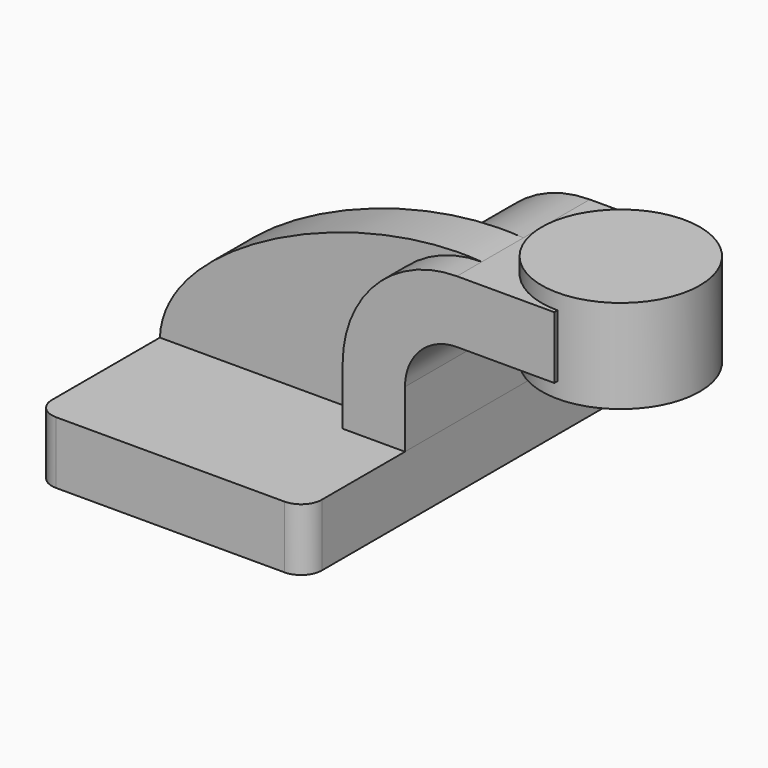
from build123d import *

# Parameters (mm, degrees)
F1_DEPTH = 63.5
F0_W     = 26.6213221727
F0_H     = 19.05
F2_DEPTH = 25.4
F3_DEPTH = 15.875
F5_R     = 6.35


with BuildPart() as f1:
    # F0 (on Front) → F1 (new body, symmetric)
    with BuildSketch(Plane.XZ):
        Polygon((41.275, -9.525), (41.275, 9.525), (22.225, 9.525), (-41.275, 9.525), (-41.275, -9.525), align=None)
    extrude(amount=F1_DEPTH, both=True)

    # F5
    f5_edges = [f1.edges().sort_by_distance(p)[0] for p in [
        (41.275, -63.5, 0),
        (-41.275, -63.5, 0),
        (-41.275, 63.5, 0),
        (41.275, 63.5, 0),
    ]]
    fillet(f5_edges, radius=F5_R)


with BuildPart() as f2:
    # F0 (on Front) → F2 (new body, symmetric)
    with BuildSketch(Plane.XZ):
        with BuildLine():
            Line((22.225, 9.525), (41.275, 9.525))
            Line((41.275, 9.525), (41.275, 27.0002))
            ThreePointArc((41.275, 27.0002), (45.9246798487, 38.2255201513), (57.15, 42.8752))
            Line((57.15, 42.8752), (60.325, 42.8752))
            Line((60.325, 42.8752), (60.325, 61.9252))
            Line((60.325, 61.9252), (57.15, 61.9252))
            ThreePointArc((57.15, 61.9252), (32.4542956671, 51.6959043329), (22.225, 27.0002))
            Line((22.225, 27.0002), (22.225, 9.525))
        make_face()
        with Locations((73.6356610864, 52.4002)):
            Rectangle(F0_W, F0_H)
    extrude(amount=F2_DEPTH, both=True)

    # F0 (on Front) → F4 (revolve)
    with BuildSketch(Plane.XZ):
        Polygon((86.9463221727, 61.9252), (86.9463221727, 42.8752), (86.9463221727, 38.1), (111.125, 38.1), (111.125, 66.675), (86.9463221727, 66.675), align=None)
    revolve(axis=Axis((86.9463221727, 0, 52.3875), (0, 0, -1)))


with BuildPart() as f3:
    # F0 (on Front) → F3 (new body)
    with BuildSketch(Plane.XZ):
        with BuildLine():
            Line((-41.275, 9.525), (22.225, 9.525))
            Line((22.225, 9.525), (22.225, 27.0002))
            ThreePointArc((22.225, 27.0002), (32.4542956671, 51.6959043329), (57.15, 61.9252))
            add(Edge.make_bspline(
                [(-41.275, 9.525), (-40.2140691876, 37.5248529017), (17.7157502621, 65.0603249669), (57.15, 61.9252)],
                knots=[0, 0, 0, 0, 111.5045361635, 111.5045361635, 111.5045361635, 111.5045361635], degree=3))
        make_face()
    extrude(amount=F3_DEPTH)


solid = Compound([f1.part, f2.part, f3.part])
